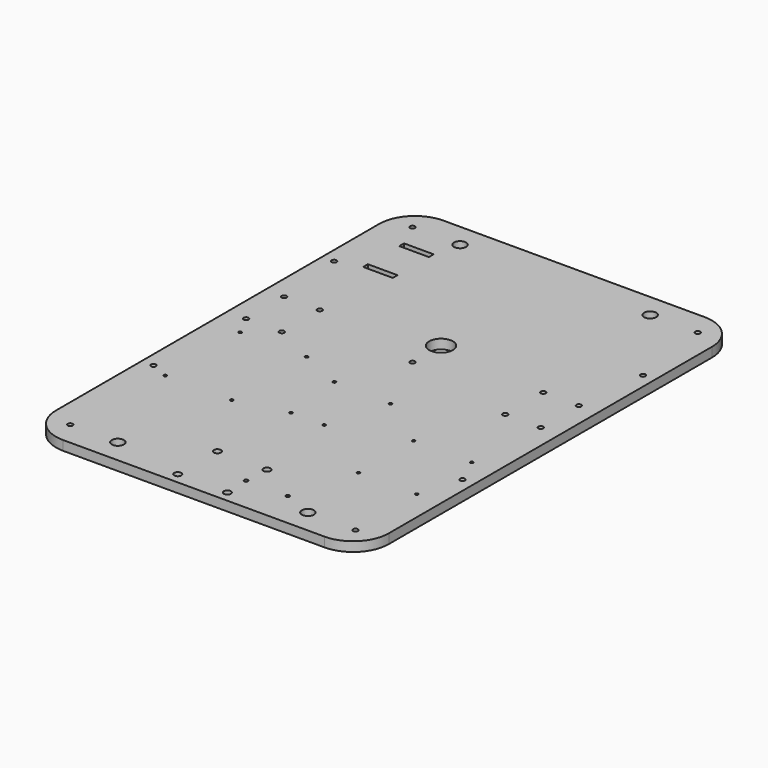
from build123d import *

# Parameters (mm, degrees)
CYLINDER006_R            = 2.1
CYLINDER006_DEPTH        = 60
ARRAY004_X_COUNT         = 2
ARRAY004_X_PITCH         = 30
ARRAY004_Y_COUNT         = 2
ARRAY004_Y_PITCH         = 40
ARRAY005_COUNT           = 2
CYLINDER003_R            = 5.1
CYLINDER003_DEPTH        = 70
ARRAY002_X_COUNT         = 2
ARRAY002_X_PITCH         = 160
SKETCH001_R              = 1.25
PAD001_DEPTH             = 50
CLONE_PLACEMENT_ANGLE    = -90
CYLINDER008_R            = 1.25
CYLINDER008_DEPTH        = 60
ARRAY007_X_COUNT         = 2
ARRAY007_X_PITCH         = 55.88
ARRAY007_Y_COUNT         = 2
ARRAY007_Y_PITCH         = 78.74
SKETCH002_R              = 1.2
PAD003_DEPTH             = 50
CLONE001_PLACEMENT_ANGLE = -90
BOX013_W                 = 25
BOX013_H                 = 5
BOX013_DEPTH             = 50
ARRAY035_Y_COUNT         = 2
ARRAY035_Y_PITCH         = 38
CYLINDER034_R            = 5.1
CYLINDER034_DEPTH        = 70
ARRAY033_X_COUNT         = 2
ARRAY033_X_PITCH         = 160
CYLINDER035_R            = 2.1
CYLINDER035_DEPTH        = 120
ARRAY036_X_COUNT         = 2
ARRAY036_X_PITCH         = 240
ARRAY036_Y_COUNT         = 2
ARRAY036_Y_PITCH         = 360
CYLINDER036_R            = 2.1
CYLINDER036_DEPTH        = 110
ARRAY037_X_COUNT         = 2
ARRAY037_X_PITCH         = 260
ARRAY037_Y_COUNT         = 2
ARRAY037_Y_PITCH         = 190
CYLINDER037_R            = 2.1
CYLINDER037_DEPTH        = 120
CYLINDER005_R            = 3
CYLINDER005_DEPTH        = 50
ARRAY003_COUNT           = 4
CYLINDER039_R            = 1.6
CYLINDER039_DEPTH        = 50
ARRAY038_X_COUNT         = 2
ARRAY038_X_PITCH         = 35
CYLINDER007_R            = 10
CYLINDER007_DEPTH        = 50
BOX002_W                 = 280
BOX002_H                 = 400
BOX002_DEPTH             = 8
FILLET_R                 = 30


with BuildPart() as obj1:
    # Cylinder006 → Cylinder006 (new body)
    with BuildSketch(Plane(origin=(16, -20, 0), x_dir=(1, 0, 0), z_dir=(0, 0, 1))):
        Circle(CYLINDER006_R)
    extrude(amount=CYLINDER006_DEPTH)

    # Array004 X: obj1_2


with BuildPart() as obj1_1:
    add(obj1.part)
    with Locations(*[(i * ARRAY004_X_PITCH, 0, 0) for i in range(1, ARRAY004_X_COUNT)]):
        add(obj1.part)

    # Array004 Y: obj1_2


with BuildPart() as obj1_2:
    add(obj1_1.part)
    with Locations(*[(0, i * ARRAY004_Y_PITCH, 0) for i in range(1, ARRAY004_Y_COUNT)]):
        add(obj1_1.part)

    # Array005: obj1_2 about axis
    array005_axis = Axis((140, 0, 0), (0, 0, 1))


with BuildPart() as obj1_3:
    add(obj1_2.part)
    for i in range(1, ARRAY005_COUNT):
        add(obj1_2.part.rotate(array005_axis, i * 360 / ARRAY005_COUNT))


with BuildPart() as obj2:
    # Cylinder003 → Cylinder003 (new body)
    with BuildSketch(Plane(origin=(60, -210, -13), x_dir=(1, 0, 0), z_dir=(0, 0, 1))):
        Circle(CYLINDER003_R)
    extrude(amount=CYLINDER003_DEPTH)

    # Array002 X: obj2_ ×2


with BuildPart() as obj2_1:
    add(obj2.part)
    with Locations(*[(i * ARRAY002_X_PITCH, 0, 0) for i in range(1, ARRAY002_X_COUNT)]):
        add(obj2.part)


with BuildPart() as clone_of_arduino_uno_holes:
    # Sketch001 → Pad001 (new body)
    with BuildSketch(Plane.XY):
        with Locations((14, 2.5)):
            Circle(SKETCH001_R)
        with Locations((15.3, 50.7)):
            Circle(SKETCH001_R)
        with Locations((66.1, 35.5)):
            Circle(SKETCH001_R)
        with Locations((66.1, 7.6)):
            Circle(SKETCH001_R)
    extrude(amount=PAD001_DEPTH)


with BuildPart() as clone_of_arduino_uno_holes_1:
    # Clone placement: moved
    add(clone_of_arduino_uno_holes.part.moved(Location((115, -40, 0))).rotate(Axis((115, -40, 0), (0, 0, 1)), CLONE_PLACEMENT_ANGLE))


with BuildPart() as array007:
    # Cylinder008 → Cylinder008 (new body)
    with BuildSketch(Plane(origin=(25.06, -37.63, 0), x_dir=(1, 0, 0), z_dir=(0, 0, 1))):
        Circle(CYLINDER008_R)
    extrude(amount=CYLINDER008_DEPTH)

    # Array007 X: Array007 ×2


with BuildPart() as array007_1:
    add(array007.part)
    with Locations(*[(i * ARRAY007_X_PITCH, 0, 0) for i in range(1, ARRAY007_X_COUNT)]):
        add(array007.part)

    # Array007 Y: Array007 ×2


with BuildPart() as array007_2:
    add(array007_1.part)
    with Locations(*[(0, -i * ARRAY007_Y_PITCH, 0) for i in range(1, ARRAY007_Y_COUNT)]):
        add(array007_1.part)


with BuildPart() as mount_electronics:
    # Sketch002 → Pad003 (new body)
    with BuildSketch(Plane.XY.offset(-4)):
        with Locations((-39, 24.5)):
            Circle(SKETCH002_R)
        with Locations((19, 24.5)):
            Circle(SKETCH002_R)
        with Locations((-39, -24.5)):
            Circle(SKETCH002_R)
        with Locations((19, -24.5)):
            Circle(SKETCH002_R)
    extrude(amount=PAD003_DEPTH)


with BuildPart() as mount_electronics_1:
    # Clone001 placement: moved
    add(mount_electronics.part.moved(Location((235, -126, 0))).rotate(Axis((235, -126, 0), (0, 0, 1)), CLONE001_PLACEMENT_ANGLE))

    # Fusion002: union Clone of arduino_uno_holes_, Array007
    add(clone_of_arduino_uno_holes_1.part)
    add(array007_2.part)


with BuildPart() as array035:
    # Box013 → Box013 (new body)
    with BuildSketch(Plane(origin=(30, 123.5, 0), x_dir=(1, 0, 0), z_dir=(0, 0, 1))):
        with Locations((12.5, 2.5)):
            Rectangle(BOX013_W, BOX013_H)
    extrude(amount=BOX013_DEPTH)

    # Array035 Y: Array035 ×2


with BuildPart() as array035_1:
    add(array035.part)
    with Locations(*[(0, -i * ARRAY035_Y_PITCH, 0) for i in range(1, ARRAY035_Y_COUNT)]):
        add(array035.part)


with BuildPart() as obj3:
    # Cylinder034 → Cylinder034 (new body)
    with BuildSketch(Plane(origin=(60, 150, -13), x_dir=(1, 0, 0), z_dir=(0, 0, 1))):
        Circle(CYLINDER034_R)
    extrude(amount=CYLINDER034_DEPTH)

    # Array033 X: obj3 ×2


with BuildPart() as obj3_1:
    add(obj3.part)
    with Locations(*[(i * ARRAY033_X_PITCH, 0, 0) for i in range(1, ARRAY033_X_COUNT)]):
        add(obj3.part)


with BuildPart() as array036:
    # Cylinder035 → Cylinder035 (new body)
    with BuildSketch(Plane(origin=(20, -210, 0), x_dir=(1, 0, 0), z_dir=(0, 0, 1))):
        Circle(CYLINDER035_R)
    extrude(amount=CYLINDER035_DEPTH)

    # Array036 X: Array036 ×2


with BuildPart() as array036_1:
    add(array036.part)
    with Locations(*[(i * ARRAY036_X_PITCH, 0, 0) for i in range(1, ARRAY036_X_COUNT)]):
        add(array036.part)

    # Array036 Y: Array036 ×2


with BuildPart() as array036_2:
    add(array036_1.part)
    with Locations(*[(0, i * ARRAY036_Y_PITCH, 0) for i in range(1, ARRAY036_Y_COUNT)]):
        add(array036_1.part)


with BuildPart() as array037:
    # Cylinder036 → Cylinder036 (new body)
    with BuildSketch(Plane(origin=(10, -110, 0), x_dir=(1, 0, 0), z_dir=(0, 0, 1))):
        Circle(CYLINDER036_R)
    extrude(amount=CYLINDER036_DEPTH)

    # Array037 X: Array037 ×2


with BuildPart() as array037_1:
    add(array037.part)
    with Locations(*[(i * ARRAY037_X_PITCH, 0, 0) for i in range(1, ARRAY037_X_COUNT)]):
        add(array037.part)

    # Array037 Y: Array037 ×2


with BuildPart() as array037_2:
    add(array037_1.part)
    with Locations(*[(0, i * ARRAY037_Y_PITCH, 0) for i in range(1, ARRAY037_Y_COUNT)]):
        add(array037_1.part)


with BuildPart() as central_entretoise_m4:
    # Cylinder037 → Cylinder037 (new body)
    with BuildSketch(Plane(origin=(140, 0, 0), x_dir=(1, 0, 0), z_dir=(0, 0, 1))):
        Circle(CYLINDER037_R)
    extrude(amount=CYLINDER037_DEPTH)


with BuildPart() as array003:
    # Cylinder005 → Cylinder005 (new body)
    with BuildSketch(Plane(origin=(160.85965, -179.14035, 0), x_dir=(1, 0, 0), z_dir=(0, 0, 1))):
        Circle(CYLINDER005_R)
    extrude(amount=CYLINDER005_DEPTH)

    # Array003: Array003 ×4 about axis
    array003_axis = Axis((140, -200, 0), (0, 0, 1))


with BuildPart() as array003_1:
    add(array003.part)
    for i in range(1, ARRAY003_COUNT):
        add(array003.part.rotate(array003_axis, i * 360 / ARRAY003_COUNT))


with BuildPart() as mount_cam_pi:
    # Cylinder039 → Cylinder039 (new body)
    with BuildSketch(Plane(origin=(160, -200, 0), x_dir=(1, 0, 0), z_dir=(0, 0, 1))):
        Circle(CYLINDER039_R)
    extrude(amount=CYLINDER039_DEPTH)

    # Array038 X: mount_cam_pi_ ×2


with BuildPart() as mount_cam_pi_1:
    add(mount_cam_pi.part)
    with Locations(*[(i * ARRAY038_X_PITCH, 0, 0) for i in range(1, ARRAY038_X_COUNT)]):
        add(mount_cam_pi.part)


with BuildPart() as fusion001:
    # Cylinder007 → Cylinder007 (new body)
    with BuildSketch(Plane(origin=(140, 30, 0), x_dir=(1, 0, 0), z_dir=(0, 0, 1))):
        Circle(CYLINDER007_R)
    extrude(amount=CYLINDER007_DEPTH)

    # Fusion001: union obj1_, obj2_, mount_electronics_, Array035, obj3, Array036, Array037, central_entretoise_m4_, Array003, mount_cam_pi_
    add(obj1_3.part)
    add(obj2_1.part)
    add(mount_electronics_1.part)
    add(array035_1.part)
    add(obj3_1.part)
    add(array036_2.part)
    add(array037_2.part)
    add(central_entretoise_m4.part)
    add(array003_1.part)
    add(mount_cam_pi_1.part)


with BuildPart() as cut:
    # Box002 → Box002 (new body)
    with BuildSketch(Plane(origin=(0, -230, 29), x_dir=(1, 0, 0), z_dir=(0, 0, 1))):
        with Locations((140, 200)):
            Rectangle(BOX002_W, BOX002_H)
    extrude(amount=BOX002_DEPTH)

    # Fillet
    fillet_edges = [cut.edges().sort_by_distance(p)[0] for p in [
        (0, -230, 33),
        (0, 170, 33),
        (280, -230, 33),
        (280, 170, 33),
    ]]
    fillet(fillet_edges, radius=FILLET_R)

    # Cut: cut Fusion001
    add(fusion001.part, mode=Mode.SUBTRACT)


solid = cut.part
